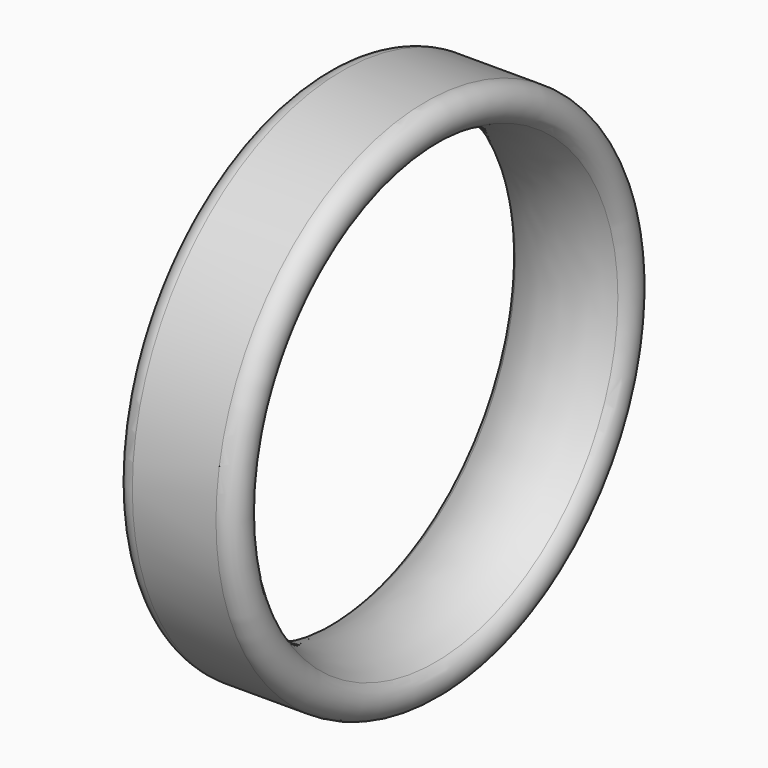
from build123d import *


with BuildPart() as part:
    # Sketch → Revolution (revolve)
    with BuildSketch(Plane.XY):
        with BuildLine():
            Line((-230.498552, -1091.3), (117.501448, -1091.3))
            ThreePointArc((117.501448, -1091.3), (190.765185, -1035.509525), (156.465271, -950.048023))
            Line((156.456686, -950.042896), (156.465271, -950.048023))
            ThreePointArc((156.456686, -950.042896), (-56.498552, -891.3), (-269.453789, -950.042896))
            Line((-269.462375, -950.048023), (-269.453789, -950.042896))
            ThreePointArc((-269.462375, -950.048023), (-303.762289, -1035.509525), (-230.498552, -1091.3))
        make_face()
    revolve(axis=Axis((0, 0, 0), (1, 0, 0)))


solid = part.part
